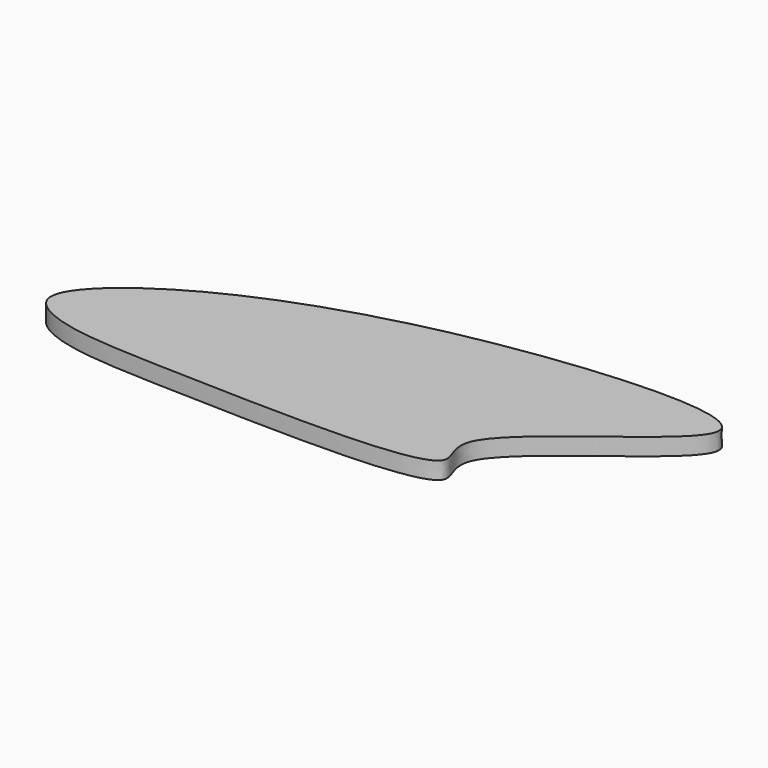
from build123d import *

# Parameters (mm, degrees)
F1_DEPTH = 5


with BuildPart() as f1:
    # F0 (on Top) → F1 (new body)
    with BuildSketch(Plane.XY):
        with BuildLine():
            add(Edge.make_bspline(
                [(-75.1896947622, 24.2200177163), (-58.7884735583, 35.8717523796), (-7.7583187937, 56.2601514091), (107.9679455248, 62.4206043063), (19.2626675661, 14.8016794078), (43.20559999, -5.867067829), (-43.3647735066, -3.2505542114), (-78.8586275975, -2.2692531934), (-93.0872856416, 7.8770076216), (-83.5016178516, 18.3150719092), (-75.1896947622, 24.2200177163)],
                knots=[0, 0, 0, 0, 0.1790478853, 0.3412596748, 0.4886646654, 0.553856348, 0.7187555316, 0.8459963697, 0.9092608877, 1, 1, 1, 1], degree=3))
        make_face()
    extrude(amount=F1_DEPTH)


solid = f1.part
